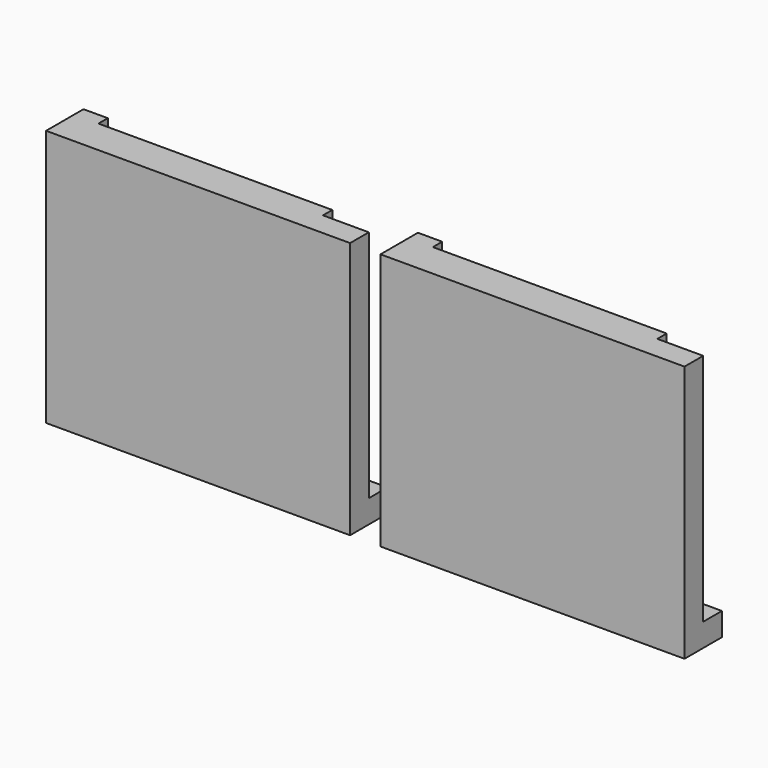
from build123d import *

# Parameters (mm, degrees)
F0_W     = 65
F0_H     = 55
F3_DEPTH = 5
F2_W     = 50
F2_H     = 5
F4_DEPTH = 2.5
F1_W     = 5
F1_H     = 50
F5_DEPTH = 5.2
F6_W     = 5
F6_H     = 4.95
F7_DEPTH = 5


with BuildPart() as f3:
    # F0 (on Front) → F3 (new body)
    with BuildSketch(Plane.XZ):
        with Locations((32.5, -27.5)):
            Rectangle(F0_W, F0_H)
    extrude(amount=F3_DEPTH)

    # F2 (on Front) → F4 (join)
    with BuildSketch(Plane.XZ):
        with Locations((30.2, -2.5)):
            Rectangle(F2_W, F2_H)
    extrude(amount=-F4_DEPTH)

    # F1 (on Right) → F5 (join)
    with BuildSketch(Plane.YZ):
        with Locations((2.5, -25)):
            Rectangle(F1_W, F1_H)
    extrude(amount=F5_DEPTH)

    # F6 (on Front) → F7 (join)
    with BuildSketch(Plane.XZ):
        with Locations((62.5, -52.525)):
            Rectangle(F6_W, F6_H)
    extrude(amount=-F7_DEPTH)


with BuildPart() as f8_1:
    # F8: copy of F3
    add(f3.part.moved(Location((-71.5, 0, 0))))


with BuildPart() as f9_1:
    # F9: copy of F3
    add(f3.part)


solid = Compound([f3.part, f8_1.part, f9_1.part])
